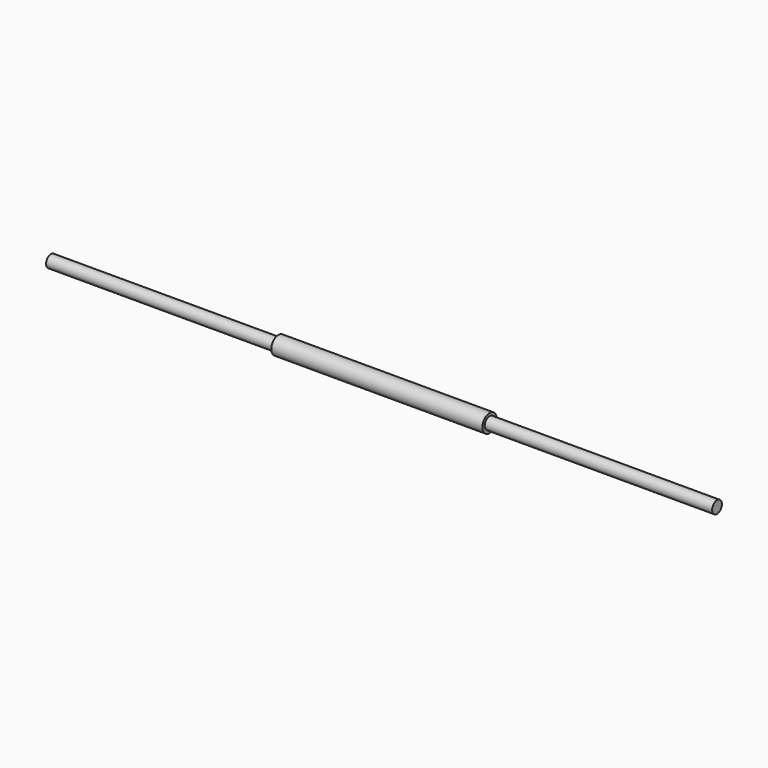
from build123d import *

# Parameters (mm, degrees)
F0_W   = 177.8
F0_H   = 4.7625
F0_W_2 = 165.1
F0_H_2 = 2.2225


with BuildPart() as f1:
    # F0 (on Front) → F1 (revolve)
    with BuildSketch(Plane.XZ):
        with Locations((-171.45, 2.38125)):
            Rectangle(F0_W, F0_H)
        with Locations((0, 5.87375)):
            Rectangle(F0_W_2, F0_H_2)
        with Locations((0, 2.38125)):
            Rectangle(F0_W_2, F0_H)
        with Locations((171.45, 2.38125)):
            Rectangle(F0_W, F0_H)
    revolve(axis=Axis((0, 0, 0), (1, 0, 0)))


solid = f1.part
